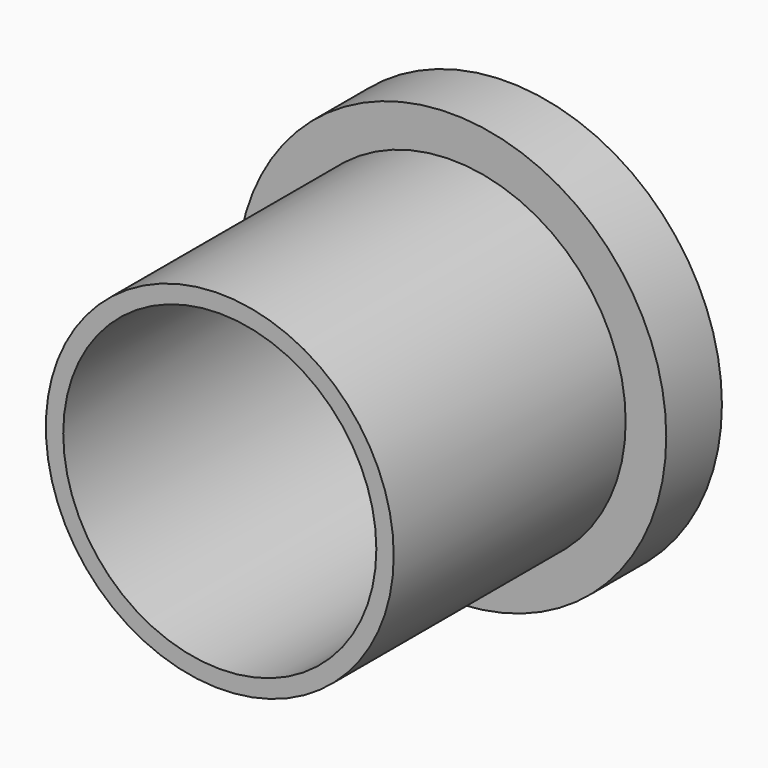
from build123d import *

# Parameters (mm, degrees)
F0_W = 0.75
F0_H = 12.5


with BuildPart() as f1:
    # F0 (on Top) → F1 (revolve)
    with BuildSketch(Plane.XY):
        Polygon((6.75, 3), (6.75, 0), (7.5, 0), (9.25, 0), (9.25, 3), align=None)
        with Locations((7.125, -6.25)):
            Rectangle(F0_W, F0_H)
    revolve(axis=Axis((0, -6.25, 0), (0, 1, 0)))


solid = f1.part
